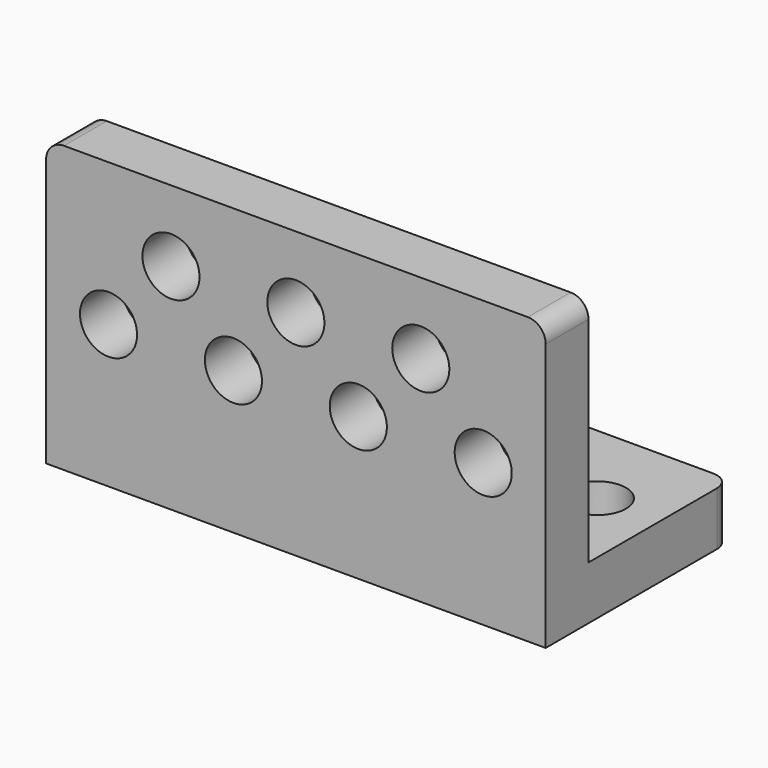
from build123d import *

# Parameters (mm, degrees)
SKETCH_W     = 28
SKETCH_H     = 13
SKETCH_R     = 1.6
PAD_DEPTH    = 3
SKETCH001_W  = 28
SKETCH001_H  = 3
PAD001_DEPTH = 13
SKETCH002_R  = 1.6
POCKET_DEPTH = 3.001
FILLET_R     = 1


with BuildPart() as part:
    # Sketch → Pad (new body)
    with BuildSketch(Plane.XY):
        with Locations((10.5, -1.5)):
            Rectangle(SKETCH_W, SKETCH_H)
        Circle(SKETCH_R, mode=Mode.SUBTRACT)
        with Locations((21, 0)):
            Circle(SKETCH_R, mode=Mode.SUBTRACT)
    extrude(amount=PAD_DEPTH)

    # Sketch001 (on Face8 of Pad) → Pad001 (join)
    with BuildSketch(Plane.XY.offset(3)):
        with Locations((10.5, -6.5)):
            Rectangle(SKETCH001_W, SKETCH001_H)
    extrude(amount=PAD001_DEPTH)

    # Sketch002 (on Face11 of Pad001) → Pocket (cut, through all)
    with BuildSketch(Plane(origin=(0, -5, 0), x_dir=(-1, 0, 0), z_dir=(0, 1, 0))):
        with Locations((-21, 8)):
            Circle(SKETCH002_R)
        with Locations((-17.5, 12)):
            Circle(SKETCH002_R)
        with Locations((-14, 8)):
            Circle(SKETCH002_R)
        with Locations((-10.5, 12)):
            Circle(SKETCH002_R)
        with Locations((-7, 8)):
            Circle(SKETCH002_R)
        with Locations((-3.5, 12)):
            Circle(SKETCH002_R)
        with Locations((0, 8)):
            Circle(SKETCH002_R)
    extrude(amount=-POCKET_DEPTH, mode=Mode.SUBTRACT)

    # Fillet
    fillet_edges = [part.edges().sort_by_distance(p)[0] for p in [
        (24.5, -6.5, 16),
        (-3.5, -6.5, 16),
        (-3.5, 5, 1.5),
        (24.5, 5, 1.5),
    ]]
    fillet(fillet_edges, radius=FILLET_R)


solid = part.part
